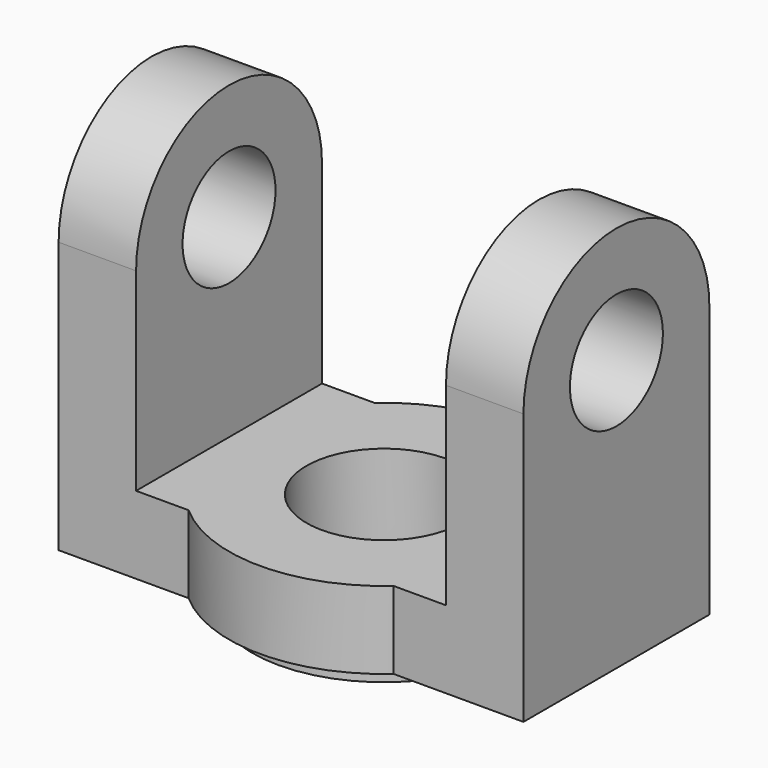
from build123d import *

# Parameters (mm, degrees)
F0_R          = 7.5
F1_DEPTH      = 30
F2_W          = 40
F2_H          = 40
F3_DEPTH      = 25
F3_DEPTH_BACK = 25
F4_R          = 20
F5_DEPTH      = 10
F6_R          = 10
F7_DEPTH      = 50.001
F7_DEPTH_BACK = 25
F8_R          = 17
F9_DEPTH      = 2.5
F10_DEPTH     = 25


with BuildPart() as f1:
    # F0 (on Right) → F1 (new body, symmetric)
    with BuildSketch(Plane.YZ):
        with BuildLine():
            Line((-15, 35), (-15, 0))
            Line((-15, 0), (15, 0))
            Line((15, 0), (15, 35))
            ThreePointArc((15, 35), (0, 50), (-15, 35))
        make_face()
        with Locations((0, 35)):
            Circle(F0_R, mode=Mode.SUBTRACT)
    extrude(amount=F1_DEPTH, both=True)

    # F2 (on Front) → F3 (cut, two sides)
    with BuildSketch(Plane.XZ) as f3_sk:
        with Locations((0, 30)):
            Rectangle(F2_W, F2_H)
    extrude(amount=F3_DEPTH, mode=Mode.SUBTRACT)
    extrude(f3_sk.sketch, amount=-F3_DEPTH_BACK, mode=Mode.SUBTRACT)

    # F4 (on Top) → F5 (join)
    with BuildSketch(Plane.XY):
        Circle(F4_R)
    extrude(amount=F5_DEPTH)

    # F6 (on Top) → F7 (cut, two sides)
    with BuildSketch(Plane.XY) as f7_sk:
        Circle(F6_R)
    extrude(amount=F7_DEPTH, mode=Mode.SUBTRACT)
    extrude(f7_sk.sketch, amount=-F7_DEPTH_BACK, mode=Mode.SUBTRACT)

    # F8 (on Top) → F9 (join)
    with BuildSketch(Plane.XY):
        Circle(F8_R)
    extrude(amount=-F9_DEPTH)

    # F6 (on Top) → F10 (cut)
    with BuildSketch(Plane.XY):
        Circle(F6_R)
    extrude(amount=-F10_DEPTH, mode=Mode.SUBTRACT)


solid = f1.part
